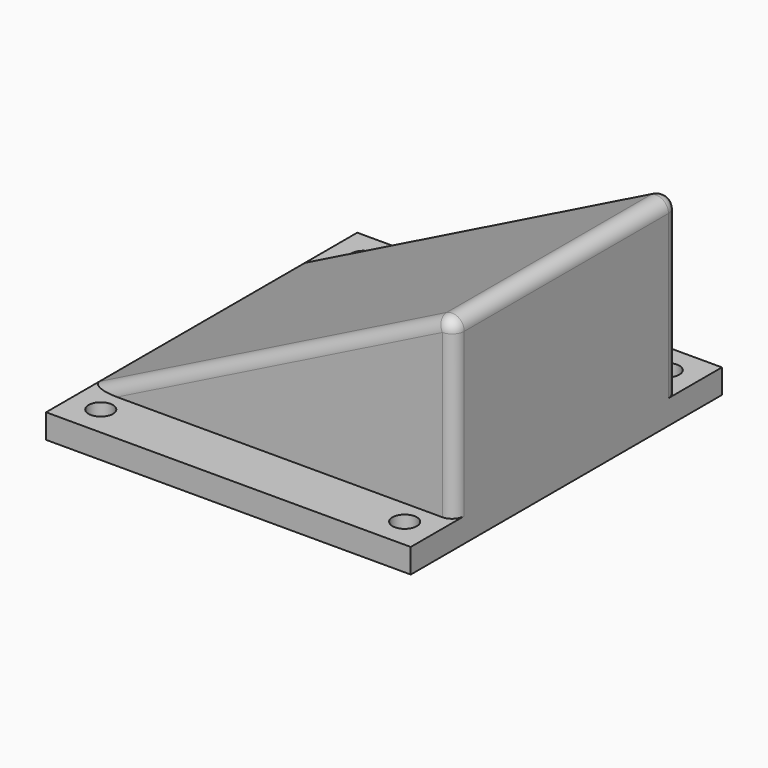
from build123d import *

# Parameters (mm, degrees)
F0_W     = 30
F0_H     = 32
F1_DEPTH = 2
F2_R     = 1
F3_DEPTH = 2
F4_W     = 30
F4_H     = 23
F5_DEPTH = 15
F7_DEPTH = 23
F8_R     = 1


with BuildPart() as f1:
    # F0 (on Top) → F1 (new body)
    with BuildSketch(Plane.XY):
        Rectangle(F0_W, F0_H)
    extrude(amount=F1_DEPTH)

    # F2 (on face) → F3 (cut)
    with BuildSketch(Plane.XY.offset(2)):
        with Locations((12.5, 13.5)):
            Circle(F2_R)
        with Locations((-12.5, 13.5)):
            Circle(F2_R)
        with Locations((-12.5, -13.5)):
            Circle(F2_R)
        with Locations((12.5, -13.5)):
            Circle(F2_R)
    extrude(amount=-F3_DEPTH, mode=Mode.SUBTRACT)

    # F4 (on face) → F5 (join)
    with BuildSketch(Plane.XY.offset(2)):
        Rectangle(F4_W, F4_H)
    extrude(amount=F5_DEPTH)

    # F6 (on face) → F7 (cut)
    with BuildSketch(Plane.XZ.offset(11.5)):
        Polygon((-15, 2), (15, 17), (-15, 17), align=None)
    extrude(amount=-F7_DEPTH, mode=Mode.SUBTRACT)

    # F8
    f8_edges = [f1.edges().sort_by_distance(p)[0] for p in [
        (15, -11.5, 9.5),
        (15, 0, 17),
        (0, -11.5, 9.5),
        (15, 11.5, 9.5),
        (0, 11.5, 9.5),
    ]]
    fillet(f8_edges, radius=F8_R)


solid = f1.part
